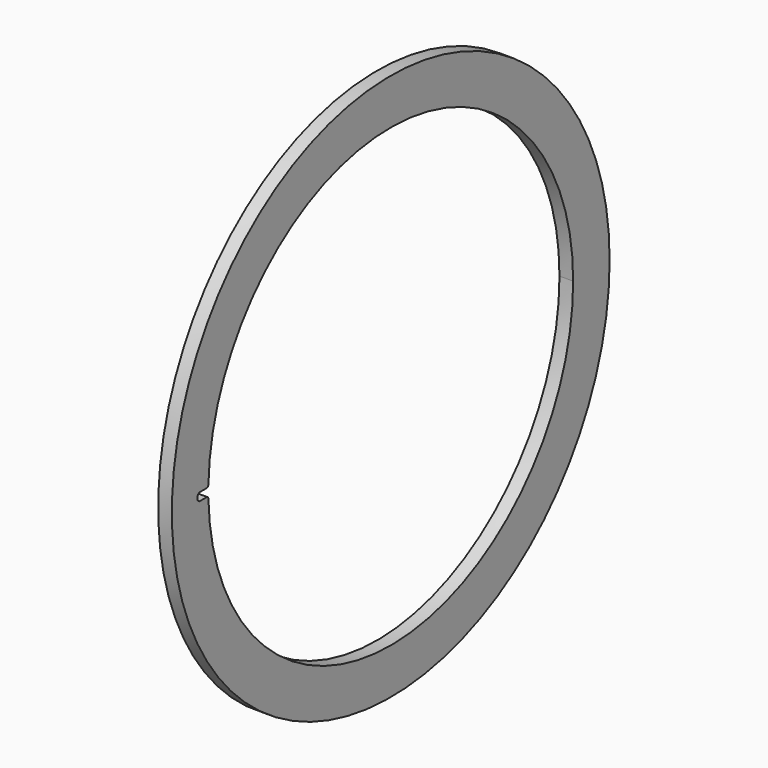
from build123d import *

# Parameters (mm, degrees)
F1_R     = 60
F2_DEPTH = 3
F3_R     = 0.5


with BuildPart() as f2:
    # F1 (on Right) → F2 (new body)
    with BuildSketch(Plane.YZ):
        Circle(F1_R)
        with BuildLine():
            ThreePointArc((-49.992385, 0.87262), (0.436327, 49.998096), (50, 0))
            ThreePointArc((50, 0), (0.436327, -49.998096), (-49.992385, -0.87262))
            Line((-49.992385, -0.87262), (-52.242385, -0.87262))
            ThreePointArc((-52.242385, -0.87262), (-52.772715, -0.65295), (-52.992385, -0.12262))
            Line((-52.992385, -0.12262), (-52.992385, 0.12262))
            ThreePointArc((-52.992385, 0.12262), (-52.772715, 0.65295), (-52.242385, 0.87262))
            Line((-52.242385, 0.87262), (-49.992385, 0.87262))
        make_face(mode=Mode.SUBTRACT)
    extrude(amount=F2_DEPTH)

    # F3
    f3_edges = [f2.edges().sort_by_distance(p)[0] for p in [
        (1.5, -49.992385, 0.87262),
        (1.5, -49.992385, -0.87262),
    ]]
    fillet(f3_edges, radius=F3_R)


solid = f2.part
